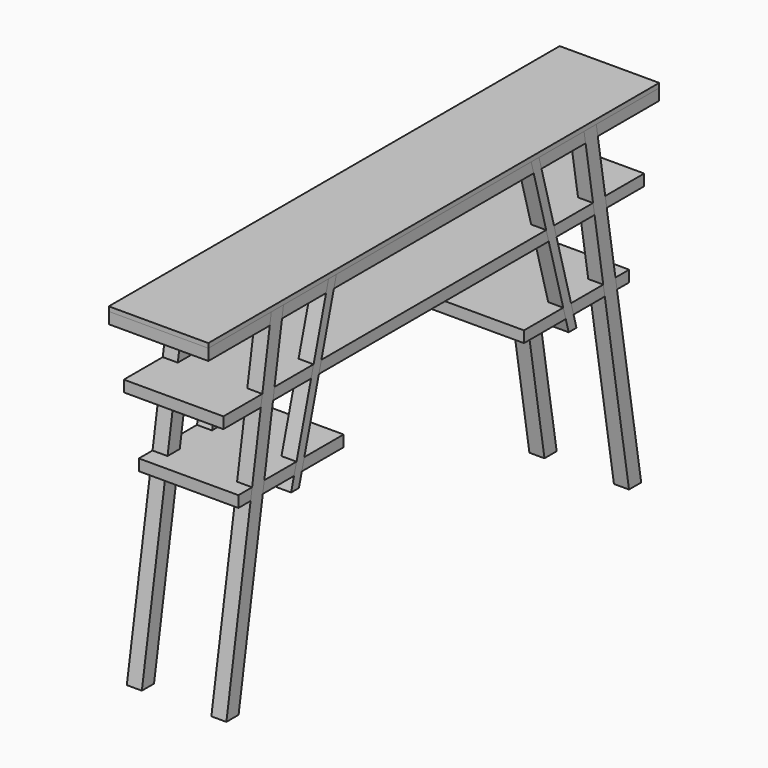
from build123d import *

# Parameters (mm, degrees)
F1_DEPTH = 265
F3_DEPTH = 40
F4_DEPTH = 40
F5_DEPTH = 40
F8_W     = 265
F8_H     = 1500
F9_DEPTH = 12


with BuildPart() as f1:
    # F0 (on Right) → F1 (new body)
    with BuildSketch(Plane.YZ):
        Polygon((209.4522449264, 900), (0, 900), (0, 870), (204.4705034289, 870), align=None)
        Polygon((250, 900), (209.4522449264, 900), (204.4705034289, 870), (245.0182585025, 870), align=None)
        Polygon((1500, 900), (1290.5477550736, 900), (1295.5294965711, 870), (1500, 870), align=None)
        Polygon((400, 900), (250, 900), (245.0182585025, 870), (391.6849251691, 870), align=None)
        Polygon((1290.5477550736, 900), (1250, 900), (1254.9817414975, 870), (1295.5294965711, 870), align=None)
        Polygon((425.9425175126, 900), (400, 900), (391.6849251691, 870), (417.6274426817, 870), align=None)
        Polygon((1074.0574824874, 900), (425.9425175126, 900), (417.6274426817, 870), (1082.3725573183, 870), align=None)
        Polygon((1100, 900), (1074.0574824874, 900), (1082.3725573183, 870), (1108.3150748309, 870), align=None)
        Polygon((1250, 900), (1100, 900), (1108.3150748309, 870), (1254.9817414975, 870), align=None)
    extrude(amount=-F1_DEPTH)


with BuildPart() as f1b:
    # F0 (on Right) → F1, piece 2 (new body)
    with BuildSketch(Plane.YZ):
        Polygon((174.5800544436, 690), (179.5617959411, 720), (50, 720), (50, 690), align=None)
        Polygon((220.1095510147, 720), (179.5617959411, 720), (174.5800544436, 690), (215.1278095172, 690), align=None)
        Polygon((1450, 720), (1320.4382040589, 720), (1325.4199455564, 690), (1450, 690), align=None)
        Polygon((350.1095510147, 720), (220.1095510147, 720), (215.1278095172, 690), (341.7944761838, 690), align=None)
        Polygon((1320.4382040589, 720), (1279.8904489853, 720), (1284.8721904828, 690), (1325.4199455564, 690), align=None)
        Polygon((376.0520685273, 720), (350.1095510147, 720), (341.7944761838, 690), (367.7369936964, 690), align=None)
        Polygon((1123.9479314727, 720), (376.0520685273, 720), (367.7369936964, 690), (1132.2630063036, 690), align=None)
        Polygon((1149.8904489853, 720), (1123.9479314727, 720), (1132.2630063036, 690), (1158.2055238162, 690), align=None)
        Polygon((1279.8904489853, 720), (1149.8904489853, 720), (1158.2055238162, 690), (1284.8721904828, 690), align=None)
    extrude(amount=-F1_DEPTH)


with BuildPart() as f1c:
    # F0 (on Right) → F1, piece 3 (new body)
    with BuildSketch(Plane.YZ):
        Polygon((140.5381542103, 485), (145.5198957079, 515), (100, 515), (100, 485), align=None)
        Polygon((186.0676507815, 515), (145.5198957079, 515), (140.5381542103, 485), (181.0859092839, 485), align=None)
        Polygon((293.2898730037, 515), (186.0676507815, 515), (181.0859092839, 485), (284.9747981728, 485), align=None)
        Polygon((319.2323905163, 515), (293.2898730037, 515), (284.9747981728, 485), (310.9173156854, 485), align=None)
        Polygon((450, 515), (319.2323905163, 515), (310.9173156854, 485), (450, 485), align=None)
    extrude(amount=-F1_DEPTH)


with BuildPart() as f1d:
    # F0 (on Right) → F1, piece 4 (new body)
    with BuildSketch(Plane.YZ):
        Polygon((1189.0826843146, 485), (1180.7676094837, 515), (1050, 515), (1050, 485), align=None)
        Polygon((1206.7101269963, 515), (1180.7676094837, 515), (1189.0826843146, 485), (1215.0252018272, 485), align=None)
        Polygon((1313.9323492185, 515), (1206.7101269963, 515), (1215.0252018272, 485), (1318.9140907161, 485), align=None)
        Polygon((1354.4801042921, 515), (1313.9323492185, 515), (1318.9140907161, 485), (1359.4618457897, 485), align=None)
        Polygon((1400, 515), (1354.4801042921, 515), (1359.4618457897, 485), (1400, 485), align=None)
    extrude(amount=-F1_DEPTH)


with BuildPart() as f3_tool:
    # F0 (on Right) → F3 (new body)
    with BuildSketch(Plane.YZ):
        Polygon((250, 900), (209.4522449264, 900), (204.4705034289, 870), (245.0182585025, 870), align=None)
        Polygon((220.1095510147, 720), (179.5617959411, 720), (174.5800544436, 690), (215.1278095172, 690), align=None)
        Polygon((1290.5477550736, 900), (1250, 900), (1254.9817414975, 870), (1295.5294965711, 870), align=None)
        Polygon((1320.4382040589, 720), (1279.8904489853, 720), (1284.8721904828, 690), (1325.4199455564, 690), align=None)
        Polygon((376.0520685273, 720), (350.1095510147, 720), (341.7944761838, 690), (367.7369936964, 690), align=None)
        Polygon((425.9425175126, 900), (400, 900), (391.6849251691, 870), (417.6274426817, 870), align=None)
        Polygon((1100, 900), (1074.0574824874, 900), (1082.3725573183, 870), (1108.3150748309, 870), align=None)
        Polygon((1149.8904489853, 720), (1123.9479314727, 720), (1132.2630063036, 690), (1158.2055238162, 690), align=None)
        Polygon((186.0676507815, 515), (145.5198957079, 515), (140.5381542103, 485), (181.0859092839, 485), align=None)
        Polygon((319.2323905163, 515), (293.2898730037, 515), (284.9747981728, 485), (310.9173156854, 485), align=None)
        Polygon((1206.7101269963, 515), (1180.7676094837, 515), (1189.0826843146, 485), (1215.0252018272, 485), align=None)
        Polygon((1354.4801042921, 515), (1313.9323492185, 515), (1318.9140907161, 485), (1359.4618457897, 485), align=None)
    extrude(amount=-F3_DEPTH)


with BuildPart() as f1_1:
    add(f1.part)

    # F3: cut by f3_tool
    add(f3_tool.part, mode=Mode.SUBTRACT)


with BuildPart() as f1b_1:
    add(f1b.part)

    # F3: cut by f3_tool
    add(f3_tool.part, mode=Mode.SUBTRACT)


with BuildPart() as f1c_1:
    add(f1c.part)

    # F3: cut by f3_tool
    add(f3_tool.part, mode=Mode.SUBTRACT)


with BuildPart() as f1d_1:
    add(f1d.part)

    # F3: cut by f3_tool
    add(f3_tool.part, mode=Mode.SUBTRACT)


with BuildPart() as f4_tool:
    # F2 (on face) → F4 (new body)
    with BuildSketch(Plane(origin=(-265, 0, 0), x_dir=(0, -1, 0), z_dir=(-1, 0, 0))):
        Polygon((-1254.9817414975, 870), (-1250, 900), (-1290.5477550736, 900), (-1295.5294965711, 870), align=None)
        Polygon((-1082.3725573183, 870), (-1074.0574824874, 900), (-1100, 900), (-1108.3150748309, 870), align=None)
        Polygon((-391.6849251691, 870), (-400, 900), (-425.9425175126, 900), (-417.6274426817, 870), align=None)
        Polygon((-204.4705034289, 870), (-209.4522449264, 900), (-250, 900), (-245.0182585025, 870), align=None)
        Polygon((-1399.4522195516, 0.0001528068), (-1279.8904489853, 720), (-1320.4382040589, 720), (-1440, 0), align=None)
        Polygon((-1198.7836049506, 450), (-1123.9479314727, 720), (-1149.8904489853, 720), (-1224.7261224632, 450), align=None)
        Polygon((-293.2898730037, 515), (-350.1095510147, 720), (-376.0520685273, 720), (-319.2323905163, 515), align=None)
        Polygon((-275.2738775368, 450), (-293.2898730037, 515), (-319.2323905163, 515), (-301.2163950494, 450), align=None)
        Polygon((-145.5198957079, 515), (-179.5617959411, 720), (-220.1095510147, 720), (-186.0676507815, 515), align=None)
        Polygon((-60, 0), (-145.5198957079, 515), (-186.0676507815, 515), (-100.5477550736, 0), align=None)
    extrude(amount=-F4_DEPTH)


with BuildPart() as f1_2:
    add(f1_1.part)

    # F4: cut by f4_tool
    add(f4_tool.part, mode=Mode.SUBTRACT)


with BuildPart() as f1b_2:
    add(f1b_1.part)

    # F4: cut by f4_tool
    add(f4_tool.part, mode=Mode.SUBTRACT)


with BuildPart() as f1c_2:
    add(f1c_1.part)

    # F4: cut by f4_tool
    add(f4_tool.part, mode=Mode.SUBTRACT)


with BuildPart() as f1d_2:
    add(f1d_1.part)

    # F4: cut by f4_tool
    add(f4_tool.part, mode=Mode.SUBTRACT)


with BuildPart() as f5:
    # F0 (on Right) → F5 (new body)
    with BuildSketch(Plane.YZ):
        Polygon((250, 900), (209.4522449264, 900), (204.4705034289, 870), (245.0182585025, 870), align=None)
        Polygon((245.0182585025, 870), (204.4705034289, 870), (179.5617959411, 720), (220.1095510147, 720), align=None)
        Polygon((181.0859092839, 485), (140.5381542103, 485), (60, 0), (100.5477550736, 0), align=None)
        Polygon((215.1278095172, 690), (174.5800544436, 690), (145.5198957079, 515), (186.0676507815, 515), align=None)
        Polygon((220.1095510147, 720), (179.5617959411, 720), (174.5800544436, 690), (215.1278095172, 690), align=None)
        Polygon((186.0676507815, 515), (145.5198957079, 515), (140.5381542103, 485), (181.0859092839, 485), align=None)
    extrude(amount=-F5_DEPTH)


with BuildPart() as f5b:
    # F0 (on Right) → F5, piece 2 (new body)
    with BuildSketch(Plane.YZ):
        Polygon((1290.5477550736, 900), (1250, 900), (1254.9817414975, 870), (1295.5294965711, 870), align=None)
        Polygon((1295.5294965711, 870), (1254.9817414975, 870), (1279.8904489853, 720), (1320.4382040589, 720), align=None)
        Polygon((1320.4382040589, 720), (1279.8904489853, 720), (1284.8721904828, 690), (1325.4199455564, 690), align=None)
        Polygon((1359.4618457897, 485), (1318.9140907161, 485), (1399.4522195516, 0.0001528068), (1440, 0), align=None)
        Polygon((1325.4199455564, 690), (1284.8721904828, 690), (1313.9323492185, 515), (1354.4801042921, 515), align=None)
        Polygon((1354.4801042921, 515), (1313.9323492185, 515), (1318.9140907161, 485), (1359.4618457897, 485), align=None)
    extrude(amount=-F5_DEPTH)


with BuildPart() as f5c:
    # F0 (on Right) → F5, piece 3 (new body)
    with BuildSketch(Plane.YZ):
        Polygon((425.9425175126, 900), (400, 900), (391.6849251691, 870), (417.6274426817, 870), align=None)
        Polygon((417.6274426817, 870), (391.6849251691, 870), (350.1095510147, 720), (376.0520685273, 720), align=None)
        Polygon((376.0520685273, 720), (350.1095510147, 720), (341.7944761838, 690), (367.7369936964, 690), align=None)
        Polygon((367.7369936964, 690), (341.7944761838, 690), (293.2898730037, 515), (319.2323905163, 515), align=None)
        Polygon((319.2323905163, 515), (293.2898730037, 515), (284.9747981728, 485), (310.9173156854, 485), align=None)
        Polygon((310.9173156854, 485), (284.9747981728, 485), (275.2738775368, 450), (301.2163950494, 450), align=None)
    extrude(amount=-F5_DEPTH)


with BuildPart() as f5d:
    # F0 (on Right) → F5, piece 4 (new body)
    with BuildSketch(Plane.YZ):
        Polygon((1100, 900), (1074.0574824874, 900), (1082.3725573183, 870), (1108.3150748309, 870), align=None)
        Polygon((1108.3150748309, 870), (1082.3725573183, 870), (1123.9479314727, 720), (1149.8904489853, 720), align=None)
        Polygon((1149.8904489853, 720), (1123.9479314727, 720), (1132.2630063036, 690), (1158.2055238162, 690), align=None)
        Polygon((1158.2055238162, 690), (1132.2630063036, 690), (1180.7676094837, 515), (1206.7101269963, 515), align=None)
        Polygon((1206.7101269963, 515), (1180.7676094837, 515), (1189.0826843146, 485), (1215.0252018272, 485), align=None)
        Polygon((1215.0252018272, 485), (1189.0826843146, 485), (1198.7836049506, 450), (1224.7261224632, 450), align=None)
    extrude(amount=-F5_DEPTH)


with BuildPart() as f7_1:
    # F7: instance of F5
    add(f5.part.mirror(Plane.YZ.offset(-132.5)))


with BuildPart() as f7_2:
    # F7: instance of F5c
    add(f5c.part.mirror(Plane.YZ.offset(-132.5)))


with BuildPart() as f7_3:
    # F7: instance of F5d
    add(f5d.part.mirror(Plane.YZ.offset(-132.5)))


with BuildPart() as f7_4:
    # F7: instance of F5b
    add(f5b.part.mirror(Plane.YZ.offset(-132.5)))


with BuildPart() as f9:
    # F8 (on face) → F9 (new body)
    with BuildSketch(Plane.XY.offset(900)):
        with Locations((-132.5, 750)):
            Rectangle(F8_W, F8_H)
    extrude(amount=F9_DEPTH)


solid = Compound([f1_2.part, f1b_2.part, f1c_2.part, f1d_2.part, f5.part, f5b.part, f5c.part, f5d.part, f7_1.part, f7_2.part, f7_3.part, f7_4.part, f9.part])
